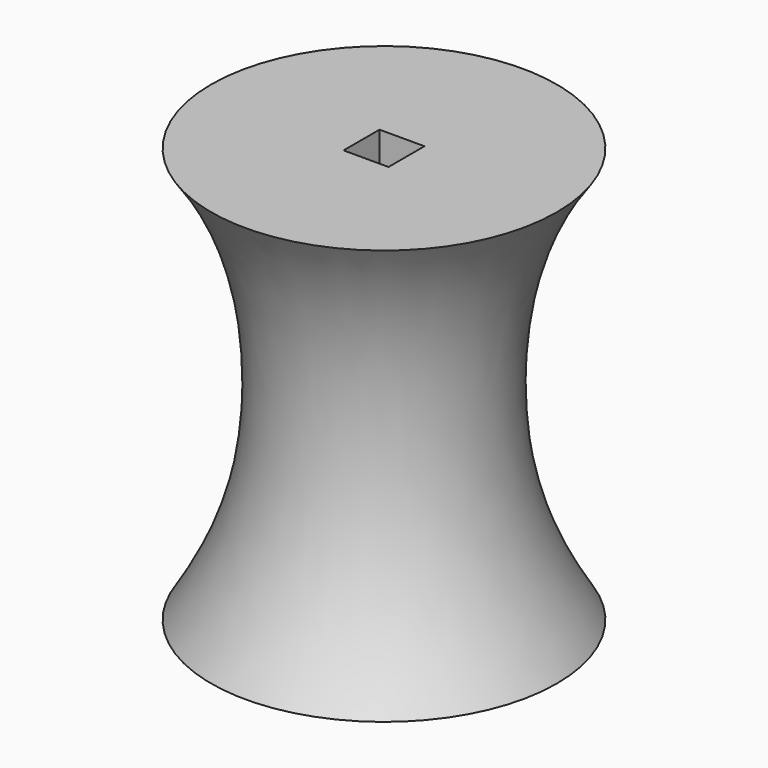
from build123d import *

# Parameters (mm, degrees)
F2_W     = 3.25
F2_H     = 3.25
F3_DEPTH = 30.001


with BuildPart() as f1:
    # F0 (on Front) → F1 (revolve)
    with BuildSketch(Plane.XZ):
        with BuildLine():
            Line((0, 30), (0, 0))
            Line((0, 0), (12.5, 0))
            add(Edge.make_bspline(
                [(12.5, 30), (9.055907, 25.34046), (6.907983, 14.663109), (9.128126, 5.333321), (12.5, 0)],
                knots=[0, 0, 0, 0, 15.66046, 31.32092, 31.32092, 31.32092, 31.32092], degree=3))
            Line((12.5, 30), (0, 30))
        make_face()
    revolve(axis=Axis((0, 0, 15), (0, 0, 1)))

    # F2 (on face) → F3 (cut, through all)
    with BuildSketch(Plane.XY.offset(30)):
        Rectangle(F2_W, F2_H)
    extrude(amount=-F3_DEPTH, mode=Mode.SUBTRACT)


solid = f1.part
